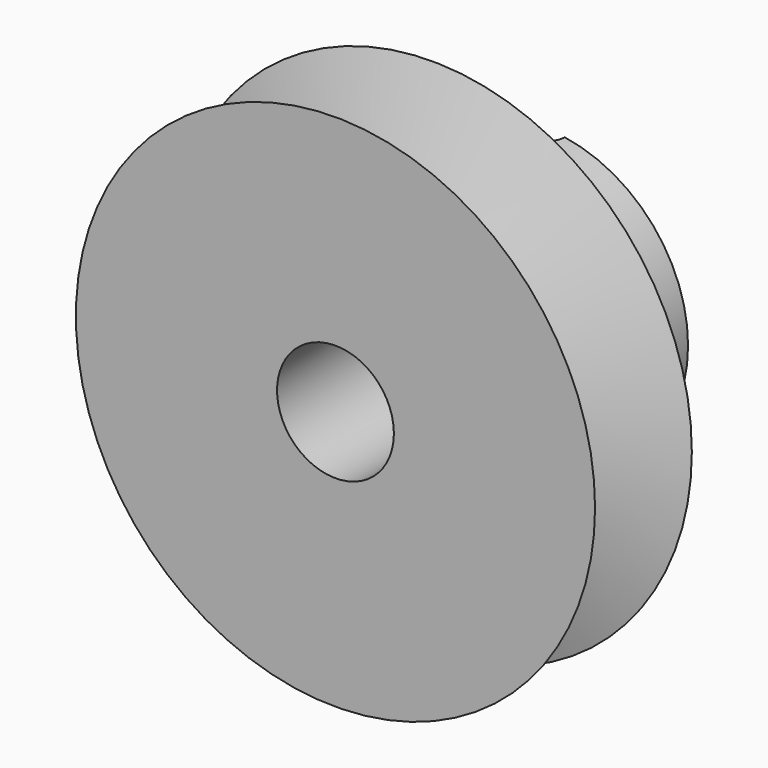
from build123d import *

# Parameters (mm, degrees)
CYLINDER_R     = 1.5
CYLINDER_DEPTH = 22


with BuildPart() as cylinder:
    # Cylinder → Cylinder (new body)
    with BuildSketch(Plane(origin=(0, 18, -11), x_dir=(1, 0, 0), z_dir=(0, 0, 1))):
        Circle(CYLINDER_R)
    extrude(amount=CYLINDER_DEPTH)


with BuildPart() as cut:
    # Sketch → Revolve (revolve)
    with BuildSketch(Plane.XY):
        Polygon((4.05, 0), (4.05, 18), (10.05, 18), (10.05, 8.389587), (18, 8.389587), (9.909247, 5.444793), (9.909247, 2.944793), (18, 0), align=None)
    revolve(axis=Axis((0, 0, 0), (0, 1, 0)))

    # Cut: cut Cylinder
    add(cylinder.part, mode=Mode.SUBTRACT)


solid = cut.part
